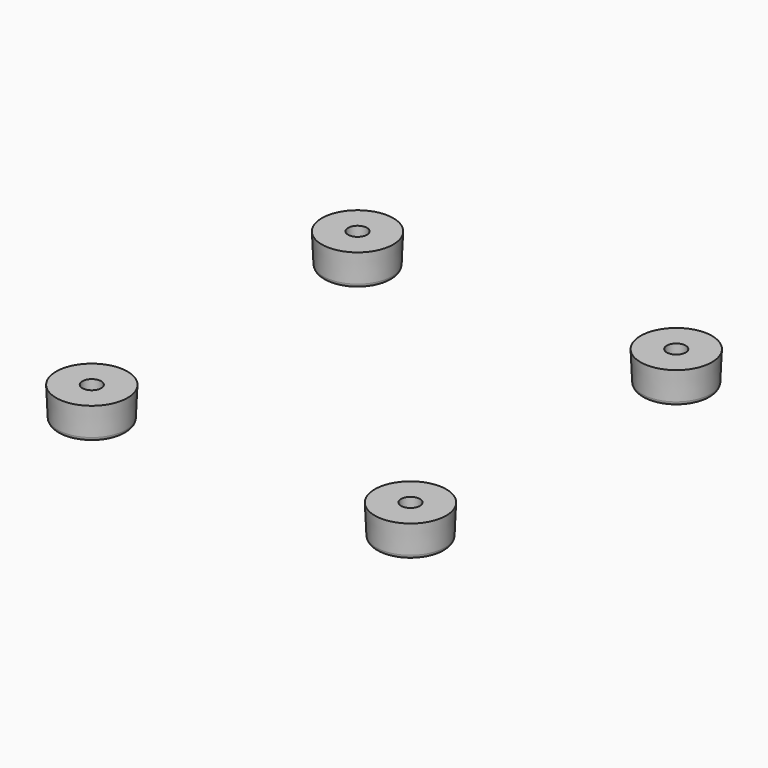
from build123d import *

# Parameters (mm, degrees)
FILLET003_R   = 0.75
ARRAY_X_COUNT = 2
ARRAY_X_PITCH = 59
ARRAY_Y_COUNT = 2
ARRAY_Y_PITCH = 61.5


with BuildPart() as part:
    # Sketch029 → Revolution (revolve)
    with BuildSketch(Plane.XZ):
        Polygon((6.35, -8.51), (3.75, -8.51), (3.75, -5.01), (1.75, -5.01), (1.75, -2.51), (6.611966, -2.51), align=None)
    revolve(axis=Axis((0, 0, 0), (0, 0, 1)))

    # Fillet003
    fillet003_edges = [part.edges().sort_by_distance(p)[0] for p in [
        (-6.35, 0, -8.51),
    ]]
    fillet(fillet003_edges, radius=FILLET003_R)


with BuildPart() as part_1:
    # Body005 placement: moved
    add(part.part.moved(Location((-30.37, -31, -6))))

    # Array X: part ×2


with BuildPart() as part_2:
    add(part_1.part)
    with Locations(*[(i * ARRAY_X_PITCH, 0, 0) for i in range(1, ARRAY_X_COUNT)]):
        add(part_1.part)

    # Array Y: part ×2


with BuildPart() as part_3:
    add(part_2.part)
    with Locations(*[(0, i * ARRAY_Y_PITCH, 0) for i in range(1, ARRAY_Y_COUNT)]):
        add(part_2.part)


solid = part_3.part
